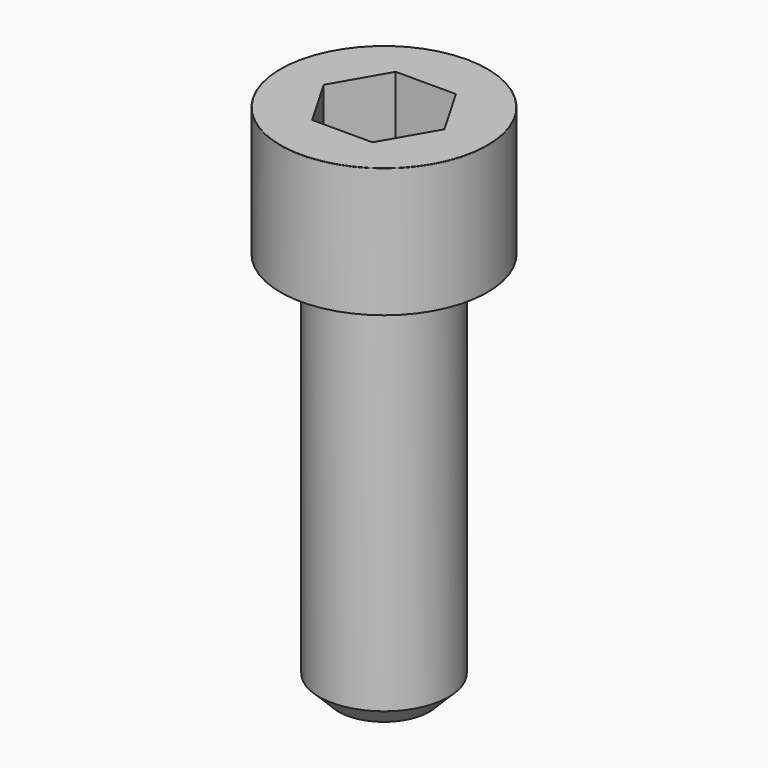
from build123d import *

# Parameters (mm, degrees)
POCKET_DEPTH = 8.07


with BuildPart() as part:
    # Sketch → Revolve (revolve)
    with BuildSketch(Plane.YZ):
        with BuildLine():
            Line((4.999, 0), (8, 0))
            Line((8, 0), (8, 9.97229))
            ThreePointArc((8, 9.97229), (7.991884, 9.991884), (7.97229, 10))
            Line((7.97229, 10), (0, 10))
            Line((0, -30), (0, 10))
            Line((3.5, -30), (0, -30))
            Line((5, -28.5), (3.5, -30))
            Line((5, -0.2), (5, -28.5))
            Line((4.999, 0), (5, -0.2))
        make_face()
    revolve(axis=Axis((0, 0, 0), (0, 0, 1)))

    # Sketch001 → Pocket (cut)
    with BuildSketch(Plane.XY.offset(10)):
        Polygon((4.659217, 0), (2.329608, 4.035), (-2.329608, 4.035), (-4.659217, 0), (-2.329608, -4.035), (2.329608, -4.035), align=None)
    extrude(amount=-POCKET_DEPTH, mode=Mode.SUBTRACT)


solid = part.part
